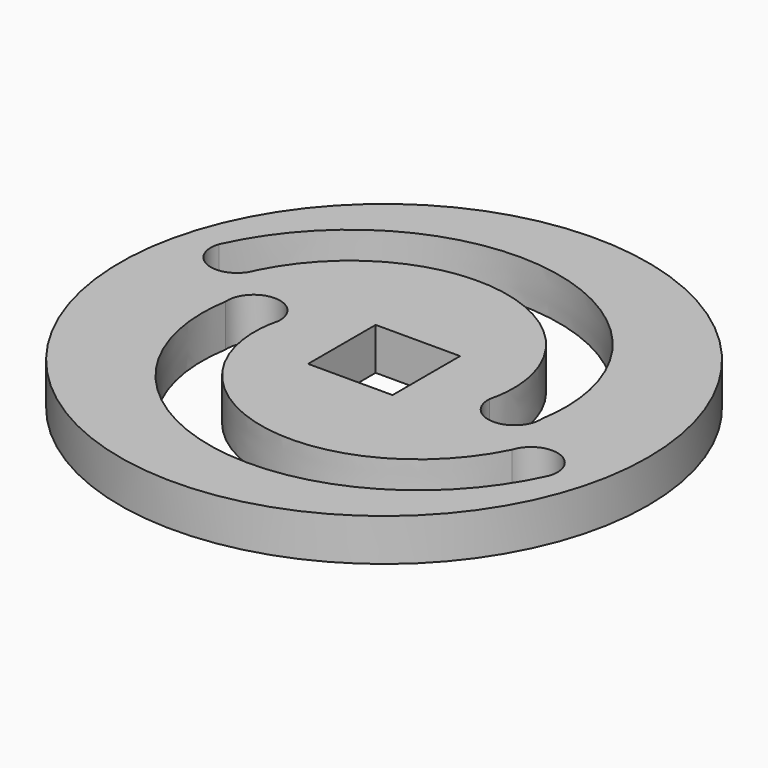
from build123d import *

# Parameters (mm, degrees)
SKETCH_R        = 25
PAD_DEPTH       = 4
POCKET_DEPTH    = 5
SKETCH009_W     = 8
SKETCH009_H     = 8
POCKET001_DEPTH = 5


with BuildPart() as part:
    # Sketch → Pad (new body)
    with BuildSketch(Plane.XY):
        Circle(SKETCH_R)
    extrude(amount=PAD_DEPTH)

    # Sketch008 → Pocket (cut)
    with BuildSketch(Plane(origin=(0, 0, 0), x_dir=(-1, 0, 0), z_dir=(0, 0, 1))):
        with BuildLine():
            add(Edge.make_bspline(
                [(10, 0), (10.72, 2.827433), (10.551736, 6.107253), (9.255372, 9.525547), (6.717902, 12.639095), (3.029145, 14.935747), (-1.475809, 15.944125), (-6.25069, 15.376552), (-10.669796, 13.21807), (-14.170604, 9.717764), (-16.358172, 5.315092)],
                knots=[0, 0, 0, 0, 0, 0, 0, 0, 0, 0, 0, 2.999063, 2.999063, 2.999063, 2.999063, 2.999063, 2.999063, 2.999063, 2.999063, 2.999063, 2.999063, 2.999063], degree=10))
            ThreePointArc((-16.358172, 5.315092), (-19.522596, 3.666166), (-21.113455, 6.860177))
            add(Edge.make_bspline(
                [(15, 0), (15.72, 4.24115), (15.107604, 8.934687), (12.922973, 13.609729), (9.116521, 17.666081), (3.904817, 20.464523), (-2.203607, 21.466288), (-8.476704, 20.39419), (-14.128959, 17.31496), (-18.489025, 12.607374), (-21.113455, 6.860177)],
                knots=[0, 0, 0, 0, 0, 0, 0, 0, 0, 0, 0, 2.999063, 2.999063, 2.999063, 2.999063, 2.999063, 2.999063, 2.999063, 2.999063, 2.999063, 2.999063, 2.999063], degree=10))
            ThreePointArc((15, 0), (12.5, -2.684775), (10, 0))
        make_face()
    extrude(amount=POCKET_DEPTH, mode=Mode.SUBTRACT)

    # Sketch009 → Pocket001 (cut)
    with BuildSketch(Plane.XY):
        with BuildLine():
            add(Edge.make_bspline(
                [(10, 0), (10.72, 2.827433), (10.551736, 6.107253), (9.255372, 9.525547), (6.717902, 12.639095), (3.029145, 14.935747), (-1.475809, 15.944125), (-6.25069, 15.376552), (-10.669796, 13.21807), (-14.170604, 9.717764), (-16.358172, 5.315092)],
                knots=[0, 0, 0, 0, 0, 0, 0, 0, 0, 0, 0, 2.999063, 2.999063, 2.999063, 2.999063, 2.999063, 2.999063, 2.999063, 2.999063, 2.999063, 2.999063, 2.999063], degree=10))
            ThreePointArc((-16.358172, 5.315092), (-19.522596, 3.666166), (-21.113455, 6.860177))
            add(Edge.make_bspline(
                [(15, 0), (15.72, 4.24115), (15.107604, 8.934687), (12.922973, 13.609729), (9.116521, 17.666081), (3.904817, 20.464523), (-2.203607, 21.466288), (-8.476704, 20.39419), (-14.128959, 17.31496), (-18.489025, 12.607374), (-21.113455, 6.860177)],
                knots=[0, 0, 0, 0, 0, 0, 0, 0, 0, 0, 0, 2.999063, 2.999063, 2.999063, 2.999063, 2.999063, 2.999063, 2.999063, 2.999063, 2.999063, 2.999063, 2.999063], degree=10))
            ThreePointArc((15, 0), (12.5, -2.684775), (10, 0))
        make_face()
        Rectangle(SKETCH009_W, SKETCH009_H)
    extrude(amount=POCKET001_DEPTH, mode=Mode.SUBTRACT)


solid = part.part
